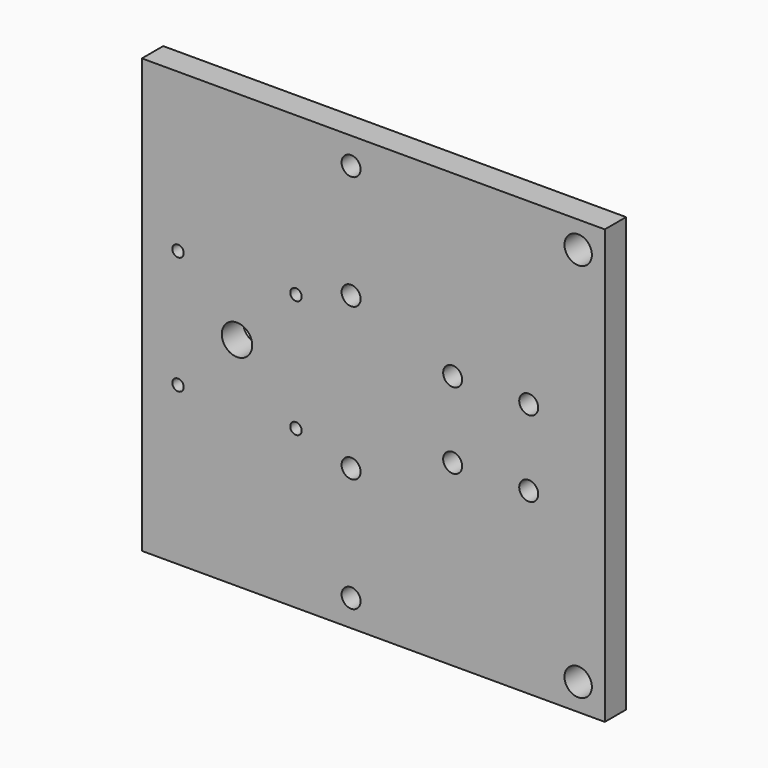
from build123d import *

# Parameters (mm, degrees)
F0_W     = 121.7
F0_H     = 114
F0_R     = 2.5
F0_R_2   = 1.5
F0_R_3   = 11
F0_R_4   = 3.6
F0_R_5   = 4
F1_DEPTH = 7
F2_R     = 2.5
F3_DEPTH = 25


with BuildPart() as f1:
    # F0 (on Front) → F1 (new body)
    with BuildSketch(Plane.XZ):
        with Locations((-56.094777, 36.537357)):
            Rectangle(F0_W, F0_H)
        with Locations((-61.944777, -13.462643)):
            Circle(F0_R, mode=Mode.SUBTRACT)
        with Locations((-107.444777, 21.037357)):
            Circle(F0_R_2, mode=Mode.SUBTRACT)
        with Locations((-91.944777, 36.537357)):
            Circle(F0_R_3, mode=Mode.SUBTRACT)
        with Locations((-76.444777, 21.037357)):
            Circle(F0_R_2, mode=Mode.SUBTRACT)
        with Locations((-61.944777, 16.537357)):
            Circle(F0_R, mode=Mode.SUBTRACT)
        with Locations((-2.244777, -13.462643)):
            Circle(F0_R_4, mode=Mode.SUBTRACT)
        with Locations((-107.444777, 52.037357)):
            Circle(F0_R_2, mode=Mode.SUBTRACT)
        with Locations((-76.444777, 52.037357)):
            Circle(F0_R_2, mode=Mode.SUBTRACT)
        with Locations((-61.944777, 56.537357)):
            Circle(F0_R, mode=Mode.SUBTRACT)
        with Locations((-61.944777, 86.537357)):
            Circle(F0_R, mode=Mode.SUBTRACT)
        with Locations((-2.244777, 86.537357)):
            Circle(F0_R_4, mode=Mode.SUBTRACT)
        with Locations((-91.944777, 36.537357)):
            Circle(F0_R_3)
        with Locations((-91.944777, 36.537357)):
            Circle(F0_R_5, mode=Mode.SUBTRACT)
    extrude(amount=F1_DEPTH)

    # F2 (on face) → F3 (cut)
    with BuildSketch(Plane.XZ.offset(7)):
        with Locations((-35.244777, 46.537357)):
            Circle(F2_R)
        with Locations((-15.244777, 46.537357)):
            Circle(F2_R)
        with Locations((-35.244777, 26.537357)):
            Circle(F2_R)
        with Locations((-15.244777, 26.537357)):
            Circle(F2_R)
    extrude(amount=-F3_DEPTH, mode=Mode.SUBTRACT)


solid = f1.part
